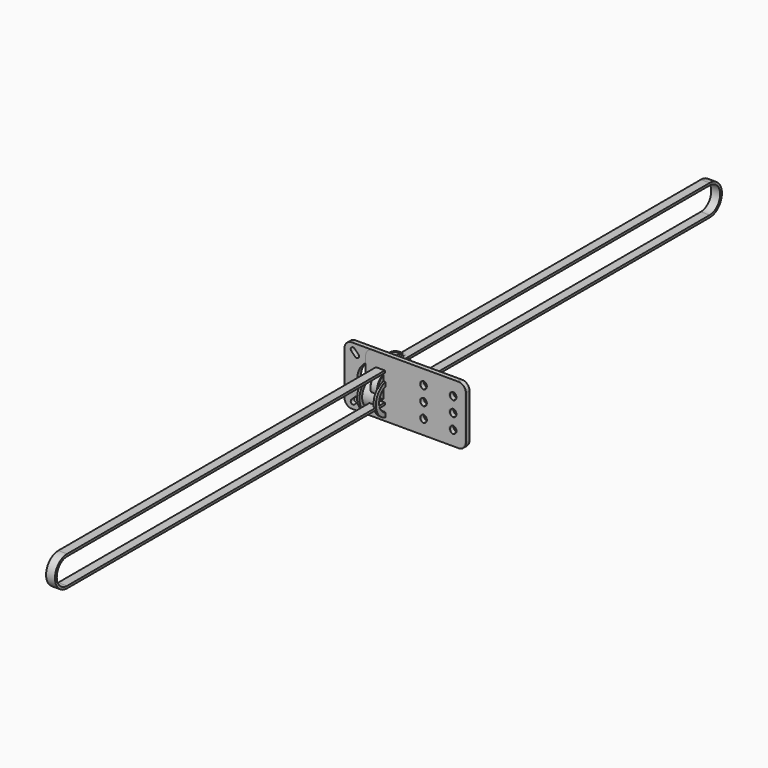
from build123d import *

# Parameters (mm, degrees)
F0_R      = 2.55
F0_R_2    = 12.5
F1_DEPTH  = 3
F2_R      = 2.55
F3_DEPTH  = 3
F6_SIZE   = 0.3
F7_R      = 8
F7_R_2    = 5
F7_R_3    = 2.5
F8_DEPTH  = 5
F9_SIZE   = 0.3
F10_DEPTH = 1
F12_DEPTH = 6
F13_W     = 6.3
F13_H     = 4
F13_W_2   = 8
F13_H_2   = 6.3125
F13_W_3   = 1.358
F13_H_3   = 8.5
F15_DEPTH = 60.751


with BuildPart() as f1:
    # F0 (on Front) → F1 (new body)
    with BuildSketch(Plane.XZ):
        with BuildLine():
            Line((55.75, 19.75), (-16.25, 19.75))
            ThreePointArc((-16.25, 19.75), (-19.7855339059, 18.2855339059), (-21.25, 14.75))
            Line((-21.25, 14.75), (-21.25, -14.75))
            ThreePointArc((-21.25, -14.75), (-19.7855339059, -18.2855339059), (-16.25, -19.75))
            Line((-16.25, -19.75), (55.75, -19.75))
            ThreePointArc((55.75, -19.75), (59.2855339059, -18.2855339059), (60.75, -14.75))
            Line((60.75, -14.75), (60.75, 14.75))
            ThreePointArc((60.75, 14.75), (59.2855339059, 18.2855339059), (55.75, 19.75))
        make_face()
        with BuildLine():
            ThreePointArc((-14.4039845229, -16.5960154771), (-16.5960154771, -16.5960154771), (-16.5960154771, -14.4039845229))
            Line((-16.5960154771, -14.4039845229), (-14.0960154771, -11.9039845229))
            ThreePointArc((-14.0960154771, -11.9039845229), (-11.9039845229, -11.9039845229), (-11.9039845229, -14.0960154771))
            Line((-11.9039845229, -14.0960154771), (-14.4039845229, -16.5960154771))
        make_face(mode=Mode.SUBTRACT)
        with BuildLine():
            ThreePointArc((16.5960154771, -14.4039845229), (16.5960154771, -16.5960154771), (14.4039845229, -16.5960154771))
            Line((14.4039845229, -16.5960154771), (11.9039845229, -14.0960154771))
            ThreePointArc((11.9039845229, -14.0960154771), (11.9039845229, -11.9039845229), (14.0960154771, -11.9039845229))
            Line((14.0960154771, -11.9039845229), (16.5960154771, -14.4039845229))
        make_face(mode=Mode.SUBTRACT)
        with Locations((32.55, -10)):
            Circle(F0_R, mode=Mode.SUBTRACT)
        with Locations((52.55, -10)):
            Circle(F0_R, mode=Mode.SUBTRACT)
        Circle(F0_R_2, mode=Mode.SUBTRACT)
        with BuildLine():
            Line((-14.0960154771, 11.9039845229), (-16.5960154771, 14.4039845229))
            ThreePointArc((-16.5960154771, 14.4039845229), (-16.5960154771, 16.5960154771), (-14.4039845229, 16.5960154771))
            Line((-14.4039845229, 16.5960154771), (-11.9039845229, 14.0960154771))
            ThreePointArc((-11.9039845229, 14.0960154771), (-11.9039845229, 11.9039845229), (-14.0960154771, 11.9039845229))
        make_face(mode=Mode.SUBTRACT)
        with BuildLine():
            ThreePointArc((14.4039845229, 16.5960154771), (16.5960154771, 16.5960154771), (16.5960154771, 14.4039845229))
            Line((16.5960154771, 14.4039845229), (14.0960154771, 11.9039845229))
            ThreePointArc((14.0960154771, 11.9039845229), (11.9039845229, 11.9039845229), (11.9039845229, 14.0960154771))
            Line((11.9039845229, 14.0960154771), (14.4039845229, 16.5960154771))
        make_face(mode=Mode.SUBTRACT)
        with Locations((32.55, 0)):
            Circle(F0_R, mode=Mode.SUBTRACT)
        with Locations((52.55, 0)):
            Circle(F0_R, mode=Mode.SUBTRACT)
        with Locations((32.55, 10)):
            Circle(F0_R, mode=Mode.SUBTRACT)
        with Locations((52.55, 10)):
            Circle(F0_R, mode=Mode.SUBTRACT)
    extrude(amount=F1_DEPTH)


with BuildPart() as f3:
    # F2 (on Front) → F3 (new body)
    with BuildSketch(Plane.XZ):
        with BuildLine():
            Line((55, 19.75), (-2, 19.75))
            ThreePointArc((-2, 19.75), (-5.5355339059, 18.2855339059), (-7, 14.75))
            Line((-7, 14.75), (-7, -14.75))
            ThreePointArc((-7, -14.75), (-5.5355339059, -18.2855339059), (-2, -19.75))
            Line((-2, -19.75), (55, -19.75))
            ThreePointArc((55, -19.75), (58.5355339059, -18.2855339059), (60, -14.75))
            Line((60, -14.75), (60, 14.75))
            ThreePointArc((60, 14.75), (58.5355339059, 18.2855339059), (55, 19.75))
        make_face()
        with Locations((31.79, -10)):
            Circle(F2_R, mode=Mode.SUBTRACT)
        with Locations((51.79, -10)):
            Circle(F2_R, mode=Mode.SUBTRACT)
        Circle(F2_R, mode=Mode.SUBTRACT)
        with Locations((31.79, 0)):
            Circle(F2_R, mode=Mode.SUBTRACT)
        with Locations((51.79, 0)):
            Circle(F2_R, mode=Mode.SUBTRACT)
        with Locations((31.79, 10)):
            Circle(F2_R, mode=Mode.SUBTRACT)
        with Locations((51.79, 10)):
            Circle(F2_R, mode=Mode.SUBTRACT)
    extrude(amount=F3_DEPTH)


with BuildPart() as f5:
    # F4 (on Front) → F5 (revolve)
    with BuildSketch(Plane.XZ):
        Polygon((-6.35, 4.055), (-6.35, 1.042), (-1.55, 1.042), (-1.55, 0), (1.55, 0), (1.55, 1.042), (6.35, 1.042), (6.35, 4.055), (4.75, 4.055), (4.75, 1.805), (-4.75, 1.805), (-4.75, 4.055), align=None)
    revolve(axis=Axis((0, 0, -6.945), (1, 0, 0)))

    # F6
    f6_edges = [f5.edges().sort_by_distance(p)[0] for p in [
        (-6.35, 0, -14.932),
        (6.35, 0, -14.932),
    ]]
    chamfer(f6_edges, length=F6_SIZE)


with BuildPart() as f8:
    # F7 (on Right) → F8 (new body)
    with BuildSketch(Plane.YZ):
        Circle(F7_R)
        Circle(F7_R_2, mode=Mode.SUBTRACT)
        Circle(F7_R_2)
        Circle(F7_R_3, mode=Mode.SUBTRACT)
    extrude(amount=F8_DEPTH)

    # F9
    f9_edges = [f8.edges().sort_by_distance(p)[0] for p in [
        (5, -8, 0),
        (0, -8, 0),
    ]]
    chamfer(f9_edges, length=F9_SIZE)


with BuildPart() as f10:
    # F7 (on Right) → F10 (new body)
    with BuildSketch(Plane.YZ):
        Circle(F7_R_2)
        Circle(F7_R_3, mode=Mode.SUBTRACT)
    extrude(amount=F10_DEPTH)


with BuildPart() as f12:
    # F11 (on Right) → F12 (new body)
    with BuildSketch(Plane.YZ):
        with BuildLine():
            Line((271.1688115735, 10.3124999315), (-271.171181224, 10.2499999319))
            ThreePointArc((-271.171181224, 10.2499999319), (-281.42, 0), (-271.171181224, -10.2499999319))
            Line((-271.171181224, -10.2499999319), (271.1688115735, -10.3124999315))
            ThreePointArc((271.1688115735, -10.3124999315), (281.4825, 0), (271.1688115735, 10.3124999315))
        make_face()
        with BuildLine():
            ThreePointArc((-271.1710083619, -8.7499999419), (-279.92, 0), (-271.1710083619, 8.7499999419))
            Line((-271.1710083619, 8.7499999419), (271.1689844355, 8.8124999415))
            ThreePointArc((271.1689844355, 8.8124999415), (279.9825, 0), (271.1689844355, -8.8124999415))
            Line((271.1689844355, -8.8124999415), (-271.1710083619, -8.7499999419))
        make_face(mode=Mode.SUBTRACT)
    extrude(amount=F12_DEPTH)


with BuildPart() as f14:
    # F13 (on Right) → F14 (revolve)
    with BuildSketch(Plane.YZ):
        with Locations((3.15, 4.5)):
            Rectangle(F13_W, F13_H)
        Polygon((6.3, 11), (6.3, 6.5), (6.3, 2.5), (7.658, 2.5), (7.658, 11), align=None)
        Polygon((7.658, 11), (7.658, 2.5), (7.9, 2.5), (7.9, 8.8125), align=None)
        with Locations((11.9, 5.65625)):
            Rectangle(F13_W_2, F13_H_2)
        Polygon((15.9, 8.8125), (15.9, 2.5), (16.142, 2.5), (16.142, 11), align=None)
        with Locations((16.821, 6.75)):
            Rectangle(F13_W_3, F13_H_3)
    revolve(axis=Axis((0, 8.75, 0), (0, 1, 0)))

    # F13 (on Right) → F15 (cut, through all)
    with BuildSketch(Plane.YZ):
        with BuildLine():
            Line((4.65, 0), (1.65, 0))
            ThreePointArc((1.65, 0), (3.15, -1.5), (4.65, 0))
        make_face()
        with BuildLine():
            ThreePointArc((4.65, 0), (3.15, 1.5), (1.65, 0))
            Line((1.65, 0), (4.65, 0))
        make_face()
    extrude(amount=F15_DEPTH, mode=Mode.SUBTRACT)


solid = Compound([f1.part, f3.part, f5.part, f8.part, f10.part, f12.part, f14.part])
